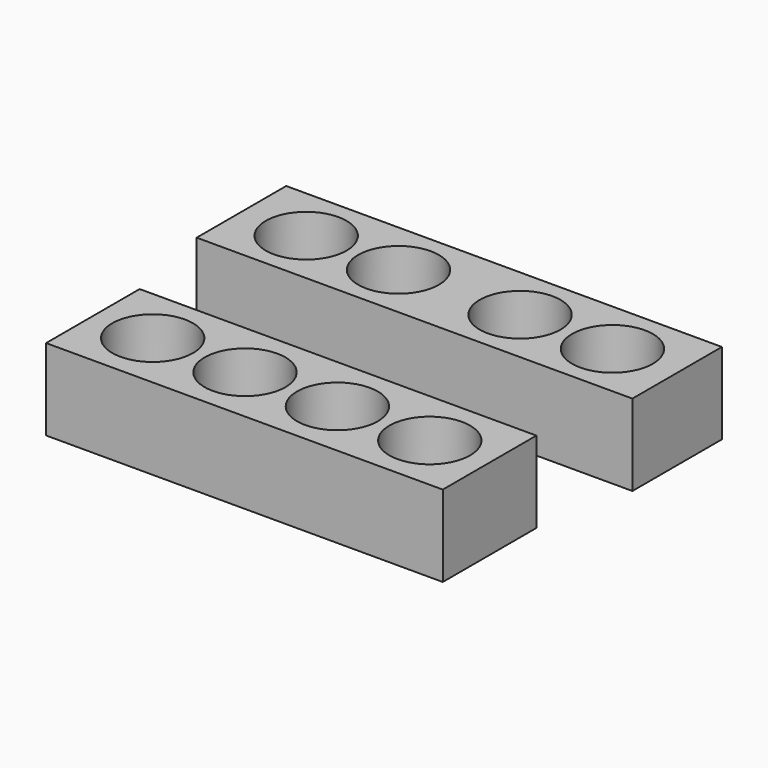
from build123d import *

# Parameters (mm, degrees)
F0_R     = 50.419
F1_DEPTH = 101.6
F0_W     = 495.3
F0_H     = 146.05
F2_DEPTH = 101.6


with BuildPart() as f1:
    # F0 (on Top) → F1 (new body)
    with BuildSketch(Plane.XY):
        Polygon((-319.249282, 332.197541), (-319.249282, 192.457818), (224.767918, 192.497541), (224.767918, 332.197541), align=None)
        with Locations((-238.450282, 262.337611)):
            Circle(F0_R, mode=Mode.SUBTRACT)
        with Locations((-123.134282, 262.337611)):
            Circle(F0_R, mode=Mode.SUBTRACT)
        with Locations((28.652918, 262.337611)):
            Circle(F0_R, mode=Mode.SUBTRACT)
        with Locations((143.968918, 262.337611)):
            Circle(F0_R, mode=Mode.SUBTRACT)
        Polygon((-319.249282, 332.197541), (-319.249282, 192.457818), (224.767918, 192.497541), (224.767918, 332.197541), align=None)
        with Locations((-238.450282, 262.337611)):
            Circle(F0_R, mode=Mode.SUBTRACT)
        with Locations((-123.134282, 262.337611)):
            Circle(F0_R, mode=Mode.SUBTRACT)
        with Locations((28.652918, 262.337611)):
            Circle(F0_R, mode=Mode.SUBTRACT)
        with Locations((143.968918, 262.337611)):
            Circle(F0_R, mode=Mode.SUBTRACT)
    extrude(amount=F1_DEPTH)


with BuildPart() as f2:
    # F0 (on Top) → F2 (new body)
    with BuildSketch(Plane.XY):
        with Locations((-47.240682, 0)):
            Rectangle(F0_W, F0_H)
        with Locations((-220.214682, 0)):
            Circle(F0_R, mode=Mode.SUBTRACT)
        with Locations((-104.898682, 0)):
            Circle(F0_R, mode=Mode.SUBTRACT)
        with Locations((10.417318, 0)):
            Circle(F0_R, mode=Mode.SUBTRACT)
        with Locations((125.733318, 0)):
            Circle(F0_R, mode=Mode.SUBTRACT)
    extrude(amount=F2_DEPTH)


solid = Compound([f1.part, f2.part])
